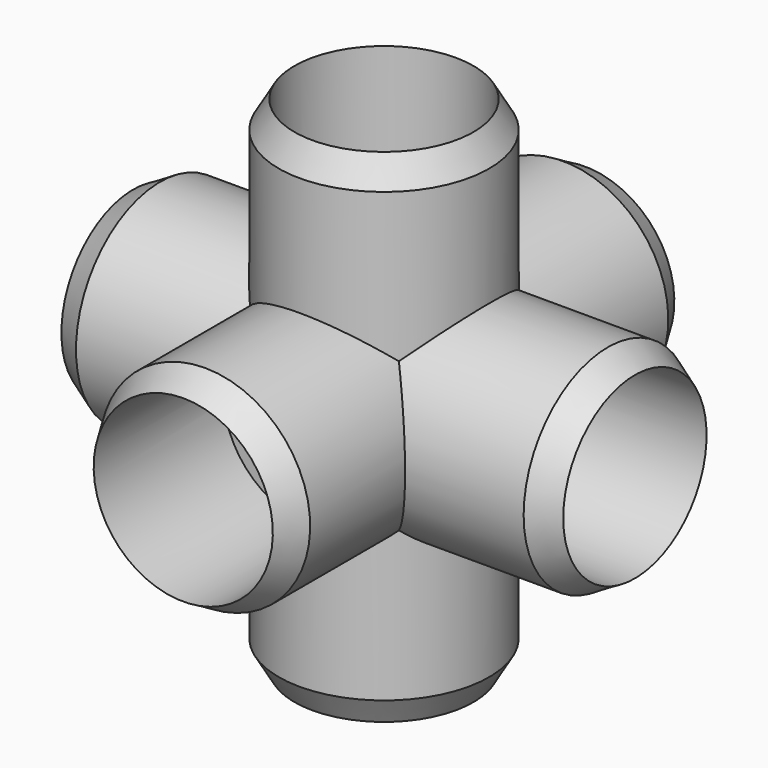
from build123d import *


with BuildPart() as f6:
    # F0 (on Right) → F6 (revolve)
    with BuildSketch(Plane.YZ):
        with BuildLine():
            Line((-52.6758568757, 24.765), (-59.055, 21.082))
            Line((-59.055, 21.082), (-20.955, 21.082))
            Line((-20.955, 21.082), (-20.955, 15.875))
            Line((-20.955, 15.875), (0, 15.875))
            ThreePointArc((0, 15.875), (11.2253201513, 11.2253201513), (15.875, 0))
            Line((15.875, 0), (24.765, 0))
            ThreePointArc((24.765, 0), (17.5114994361, 17.5114994361), (0, 24.765))
            Line((0, 24.765), (-52.6758568757, 24.765))
        make_face()
        with BuildLine():
            Line((-20.955, 21.082), (-59.055, 21.082))
            Line((-59.055, 21.082), (-59.055, 0))
            Line((-59.055, 0), (0, 0))
            Line((0, 0), (10.5189766587, 0))
            Line((10.5189766587, 0), (15.875, 0))
            ThreePointArc((15.875, 0), (11.2253201513, 11.2253201513), (0, 15.875))
            Line((0, 15.875), (-20.955, 15.875))
            Line((-20.955, 15.875), (-20.955, 21.082))
        make_face()
    revolve(axis=Axis((0, -21.59, 0), (0, 1, 0)))

    # F1 (on Right) → F7 (revolve)
    with BuildSketch(Plane.YZ):
        with BuildLine():
            Line((-24.765, -52.6758568757), (-21.082, -59.055))
            Line((-21.082, -59.055), (-21.082, -20.955))
            Line((-21.082, -20.955), (-15.875, -20.955))
            Line((-15.875, -20.955), (-15.875, 0))
            ThreePointArc((-15.875, 0), (-11.2253201513, 11.2253201513), (0, 15.875))
            Line((0, 15.875), (0, 24.765))
            ThreePointArc((0, 24.765), (-17.5114994361, 17.5114994361), (-24.765, 0))
            Line((-24.765, 0), (-24.765, -52.6758568757))
        make_face()
        with BuildLine():
            Line((-21.082, -20.955), (-21.082, -59.055))
            Line((-21.082, -59.055), (0, -59.055))
            Line((0, -59.055), (0, 0))
            Line((0, 0), (0, 15.875))
            ThreePointArc((0, 15.875), (-11.2253201513, 11.2253201513), (-15.875, 0))
            Line((-15.875, 0), (-15.875, -20.955))
            Line((-15.875, -20.955), (-21.082, -20.955))
        make_face()
    revolve(axis=Axis((0, 0, -21.59), (0, 0, 1)))

    # F2 (on Right) → F8 (revolve)
    with BuildSketch(Plane.YZ):
        with BuildLine():
            Line((52.6758568757, -24.765), (59.055, -21.082))
            Line((59.055, -21.082), (20.955, -21.082))
            Line((20.955, -21.082), (20.955, -15.875))
            Line((20.955, -15.875), (0, -15.875))
            ThreePointArc((0, -15.875), (-11.2253201513, -11.2253201513), (-15.875, 0))
            Line((-15.875, 0), (-24.765, 0))
            ThreePointArc((-24.765, 0), (-17.5114994361, -17.5114994361), (0, -24.765))
            Line((0, -24.765), (52.6758568757, -24.765))
        make_face()
        with BuildLine():
            Line((20.955, -21.082), (59.055, -21.082))
            Line((59.055, -21.082), (59.055, 0))
            Line((59.055, 0), (10.5189766587, 0))
            Line((10.5189766587, 0), (0, 0))
            Line((0, 0), (-15.875, 0))
            ThreePointArc((-15.875, 0), (-11.2253201513, -11.2253201513), (0, -15.875))
            Line((0, -15.875), (20.955, -15.875))
            Line((20.955, -15.875), (20.955, -21.082))
        make_face()
    revolve(axis=Axis((0, 21.59, 0), (0, -1, 0)))

    # F3 (on Right) → F9 (revolve)
    with BuildSketch(Plane.YZ):
        with BuildLine():
            Line((24.765, 52.6758568757), (21.082, 59.055))
            Line((21.082, 59.055), (21.082, 20.955))
            Line((21.082, 20.955), (15.875, 20.955))
            Line((15.875, 20.955), (15.875, 0))
            ThreePointArc((15.875, 0), (11.2253201513, -11.2253201513), (0, -15.875))
            Line((0, -15.875), (0, -24.765))
            ThreePointArc((0, -24.765), (17.5114994361, -17.5114994361), (24.765, 0))
            Line((24.765, 0), (24.765, 52.6758568757))
        make_face()
        with BuildLine():
            Line((21.082, 20.955), (21.082, 59.055))
            Line((21.082, 59.055), (0, 59.055))
            Line((0, 59.055), (0, 9.2996467855))
            Line((0, 9.2996467855), (0, 0))
            Line((0, 0), (0, -15.875))
            ThreePointArc((0, -15.875), (11.2253201513, -11.2253201513), (15.875, 0))
            Line((15.875, 0), (15.875, 20.955))
            Line((15.875, 20.955), (21.082, 20.955))
        make_face()
    revolve(axis=Axis((0, 0, 21.59), (0, 0, -1)))

    # F4 (on Top) → F10 (revolve)
    with BuildSketch(Plane.XY):
        with BuildLine():
            Line((-52.6758568757, 24.765), (-59.055, 21.082))
            Line((-59.055, 21.082), (-20.955, 21.082))
            Line((-20.955, 21.082), (-20.955, 15.875))
            Line((-20.955, 15.875), (0, 15.875))
            ThreePointArc((0, 15.875), (11.2253201513, 11.2253201513), (15.875, 0))
            Line((15.875, 0), (24.765, 0))
            ThreePointArc((24.765, 0), (17.5114994361, 17.5114994361), (0, 24.765))
            Line((0, 24.765), (-52.6758568757, 24.765))
        make_face()
        with BuildLine():
            Line((-20.955, 21.082), (-59.055, 21.082))
            Line((-59.055, 21.082), (-59.055, 0))
            Line((-59.055, 0), (-12.5608257832, 0))
            Line((-12.5608257832, 0), (0, 0))
            Line((0, 0), (15.875, 0))
            ThreePointArc((15.875, 0), (11.2253201513, 11.2253201513), (0, 15.875))
            Line((0, 15.875), (-20.955, 15.875))
            Line((-20.955, 15.875), (-20.955, 21.082))
        make_face()
    revolve(axis=Axis((-21.59, 0, 0), (1, 0, 0)))

    # F5 (on Top) → F11 (revolve)
    with BuildSketch(Plane.XY):
        with BuildLine():
            Line((52.6758568757, -24.765), (59.055, -21.082))
            Line((59.055, -21.082), (20.955, -21.082))
            Line((20.955, -21.082), (20.955, -15.875))
            Line((20.955, -15.875), (0, -15.875))
            ThreePointArc((0, -15.875), (-11.2253201513, -11.2253201513), (-15.875, 0))
            Line((-15.875, 0), (-24.765, 0))
            ThreePointArc((-24.765, 0), (-17.5114994361, -17.5114994361), (0, -24.765))
            Line((0, -24.765), (52.6758568757, -24.765))
        make_face()
        Polygon((20.955, -21.082), (59.055, -21.082), (59.055, 0), (30.3153488902, 0), (0, 0), (0, -15.875), (20.955, -15.875), align=None)
        with BuildLine():
            ThreePointArc((-15.875, 0), (-11.2253201513, -11.2253201513), (0, -15.875))
            Line((0, -15.875), (0, 0))
            Line((0, 0), (-15.875, 0))
        make_face()
    revolve(axis=Axis((21.59, 0, 0), (-1, 0, 0)))

    # F0 (on Right) → F12 (revolve, cut)
    with BuildSketch(Plane.YZ):
        with BuildLine():
            Line((-20.955, 21.082), (-59.055, 21.082))
            Line((-59.055, 21.082), (-59.055, 0))
            Line((-59.055, 0), (0, 0))
            Line((0, 0), (10.5189766587, 0))
            Line((10.5189766587, 0), (15.875, 0))
            ThreePointArc((15.875, 0), (11.2253201513, 11.2253201513), (0, 15.875))
            Line((0, 15.875), (-20.955, 15.875))
            Line((-20.955, 15.875), (-20.955, 21.082))
        make_face()
    revolve(axis=Axis((0, -21.59, 0), (0, 1, 0)), mode=Mode.SUBTRACT)

    # F1 (on Right) → F13 (revolve, cut)
    with BuildSketch(Plane.YZ):
        with BuildLine():
            Line((-21.082, -20.955), (-21.082, -59.055))
            Line((-21.082, -59.055), (0, -59.055))
            Line((0, -59.055), (0, 0))
            Line((0, 0), (0, 15.875))
            ThreePointArc((0, 15.875), (-11.2253201513, 11.2253201513), (-15.875, 0))
            Line((-15.875, 0), (-15.875, -20.955))
            Line((-15.875, -20.955), (-21.082, -20.955))
        make_face()
    revolve(axis=Axis((0, 0, -21.59), (0, 0, 1)), mode=Mode.SUBTRACT)

    # F2 (on Right) → F14 (revolve, cut)
    with BuildSketch(Plane.YZ):
        with BuildLine():
            Line((20.955, -21.082), (59.055, -21.082))
            Line((59.055, -21.082), (59.055, 0))
            Line((59.055, 0), (10.5189766587, 0))
            Line((10.5189766587, 0), (0, 0))
            Line((0, 0), (-15.875, 0))
            ThreePointArc((-15.875, 0), (-11.2253201513, -11.2253201513), (0, -15.875))
            Line((0, -15.875), (20.955, -15.875))
            Line((20.955, -15.875), (20.955, -21.082))
        make_face()
    revolve(axis=Axis((0, 21.59, 0), (0, -1, 0)), mode=Mode.SUBTRACT)

    # F3 (on Right) → F15 (revolve, cut)
    with BuildSketch(Plane.YZ):
        with BuildLine():
            Line((21.082, 20.955), (21.082, 59.055))
            Line((21.082, 59.055), (0, 59.055))
            Line((0, 59.055), (0, 9.2996467855))
            Line((0, 9.2996467855), (0, 0))
            Line((0, 0), (0, -15.875))
            ThreePointArc((0, -15.875), (11.2253201513, -11.2253201513), (15.875, 0))
            Line((15.875, 0), (15.875, 20.955))
            Line((15.875, 20.955), (21.082, 20.955))
        make_face()
    revolve(axis=Axis((0, 0, 21.59), (0, 0, -1)), mode=Mode.SUBTRACT)

    # F4 (on Top) → F16 (revolve, cut)
    with BuildSketch(Plane.XY):
        with BuildLine():
            Line((-20.955, 21.082), (-59.055, 21.082))
            Line((-59.055, 21.082), (-59.055, 0))
            Line((-59.055, 0), (-12.5608257832, 0))
            Line((-12.5608257832, 0), (0, 0))
            Line((0, 0), (15.875, 0))
            ThreePointArc((15.875, 0), (11.2253201513, 11.2253201513), (0, 15.875))
            Line((0, 15.875), (-20.955, 15.875))
            Line((-20.955, 15.875), (-20.955, 21.082))
        make_face()
    revolve(axis=Axis((-21.59, 0, 0), (1, 0, 0)), mode=Mode.SUBTRACT)

    # F5 (on Top) → F17 (revolve, cut)
    with BuildSketch(Plane.XY):
        Polygon((20.955, -21.082), (59.055, -21.082), (59.055, 0), (30.3153488902, 0), (0, 0), (0, -15.875), (20.955, -15.875), align=None)
    revolve(axis=Axis((21.59, 0, 0), (-1, 0, 0)), mode=Mode.SUBTRACT)


solid = f6.part
